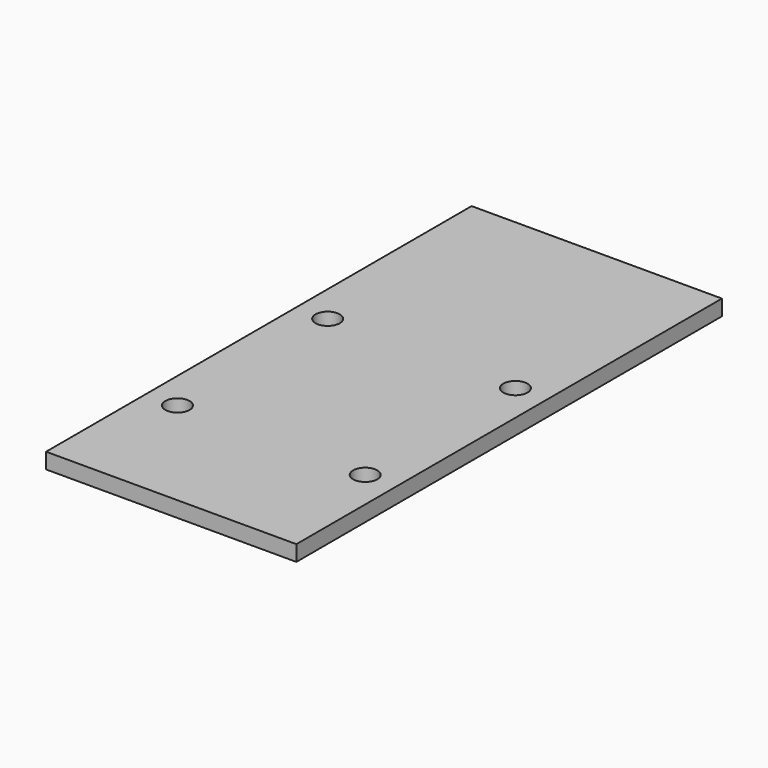
from build123d import *

# Parameters (mm, degrees)
F0_W     = 101.6
F0_H     = 215.9
F1_DEPTH = 6.35
F3_D     = 9.8425


with BuildPart() as f1:
    # F0 (on Top) → F1 (new body)
    with BuildSketch(Plane.XY):
        with Locations((50.8, 107.95)):
            Rectangle(F0_W, F0_H)
    extrude(amount=F1_DEPTH)

    # F3 (through all)
    with Locations(Plane.XY.offset(6.35)):
        with Locations((12.7, 127), (88.9, 127), (88.9, 50.8), (12.7, 50.8)):
            Hole(F3_D / 2)


solid = f1.part
